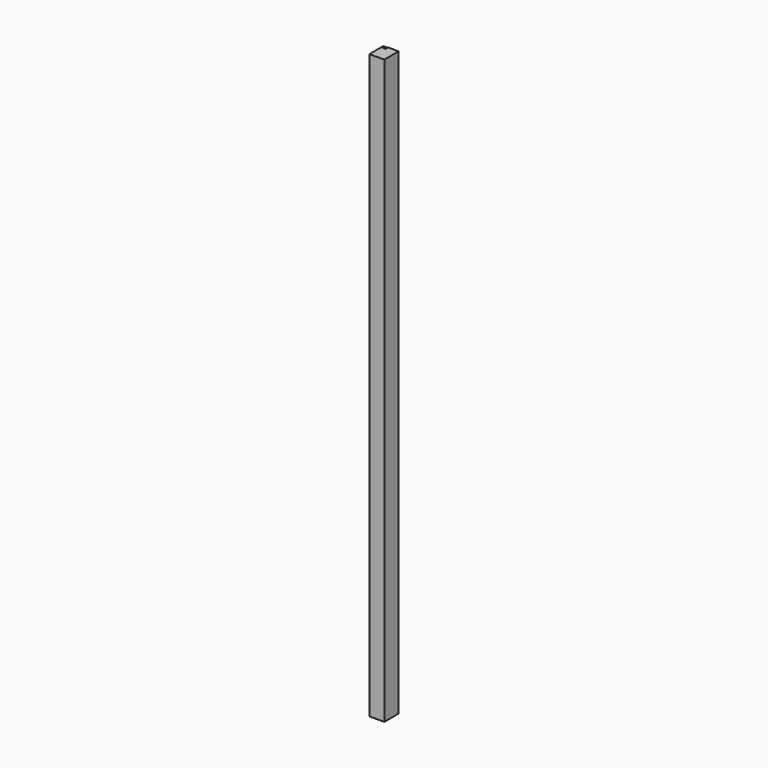
from build123d import *

# Parameters (mm, degrees)
F0_W     = 50
F0_H     = 60
F1_DEPTH = 1950
F2_W     = 15
F2_H     = 2
F3_DEPTH = 1350


with BuildPart() as f1:
    # F0 (on Top) → F1 (new body)
    with BuildSketch(Plane.XY):
        Rectangle(F0_W, F0_H)
    extrude(amount=F1_DEPTH)

    # F2 (on face) → F3 (cut)
    with BuildSketch(Plane.XY.offset(1950)):
        with Locations((-17.5, 29)):
            Rectangle(F2_W, F2_H)
        with Locations((-17.5, 25)):
            Rectangle(F2_W, F2_H)
        with Locations((-17.5, 21)):
            Rectangle(F2_W, F2_H)
    extrude(amount=-F3_DEPTH, mode=Mode.SUBTRACT)


solid = f1.part
